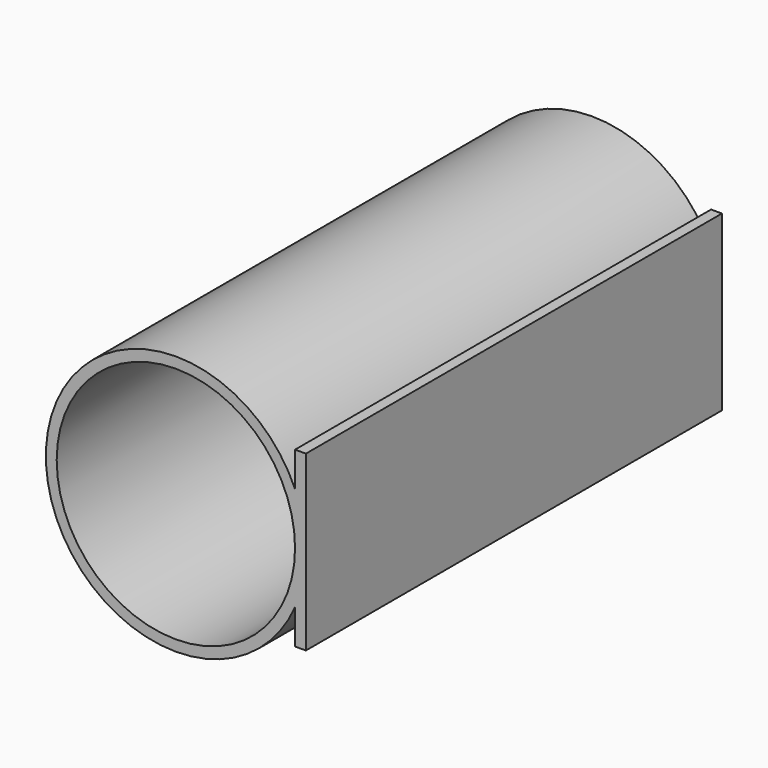
from build123d import *

# Parameters (mm, degrees)
F0_R     = 38.1
F1_DEPTH = 76.2
F2_R     = 34.925
F3_DEPTH = 146.05
F4_W     = 3.175
F4_H     = 152.4
F5_DEPTH = 25.4


with BuildPart() as f1:
    # F0 (on Front) → F1 (new body, symmetric)
    with BuildSketch(Plane.XZ):
        Circle(F0_R)
    extrude(amount=F1_DEPTH, both=True)

    # F2 (on face) → F3 (cut)
    with BuildSketch(Plane.XZ.offset(76.2)):
        Circle(F2_R)
    extrude(amount=-F3_DEPTH, mode=Mode.SUBTRACT)

    # F4 (on Top) → F5 (join, symmetric)
    with BuildSketch(Plane.XY):
        with Locations((36.5125, 0)):
            Rectangle(F4_W, F4_H)
    extrude(amount=F5_DEPTH, both=True)


solid = f1.part
